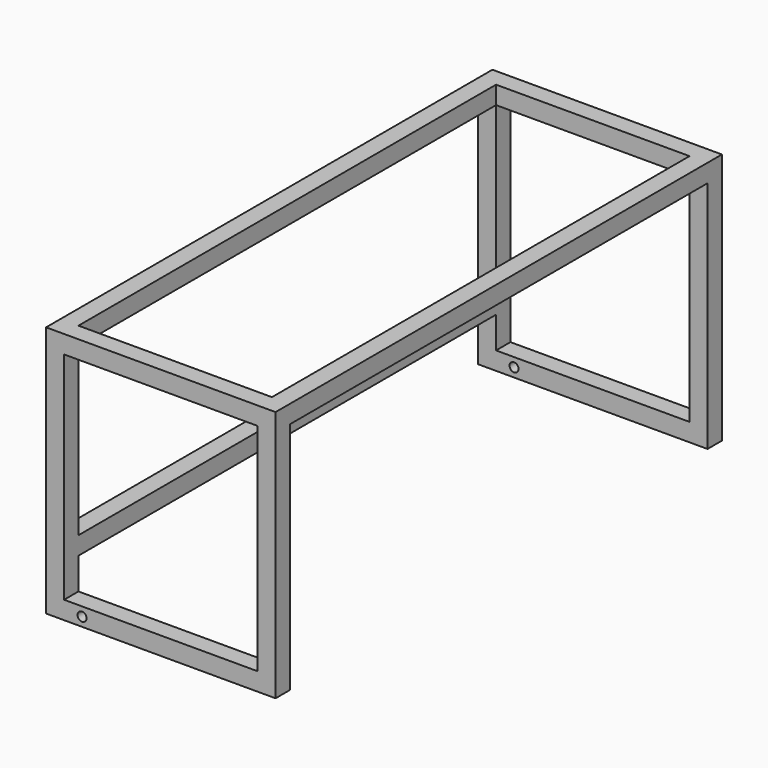
from build123d import *

# Parameters (mm, degrees)
F0_W     = 20
F0_H     = 20
F1_DEPTH = 310
F2_W     = 20
F2_H     = 20
F3_DEPTH = 260
F4_W     = 20
F4_H     = 20
F5_DEPTH = 215
F6_W     = 20
F6_H     = 20
F7_DEPTH = 580
F8_R     = 5
F9_DEPTH = 620


with BuildPart() as f1:
    # F0 (on Front) → F1 (new body, symmetric)
    with BuildSketch(Plane.XZ):
        with Locations((10, 260)):
            Rectangle(F0_W, F0_H)
    extrude(amount=F1_DEPTH, both=True)

    # F2 (on face) → F3 (join)
    with BuildSketch(Plane(origin=(0, 0, 250), x_dir=(1, 0, 0), z_dir=(0, 0, -1))):
        with Locations((10, 300)):
            Rectangle(F2_W, F2_H)
        with Locations((10, -300)):
            Rectangle(F2_W, F2_H)
    extrude(amount=F3_DEPTH)



with BuildPart() as f1b:
    # F0 (on Front) → F1, piece 2 (new body, symmetric)
    with BuildSketch(Plane.XZ):
        with Locations((245, 260)):
            Rectangle(F0_W, F0_H)
    extrude(amount=F1_DEPTH, both=True)

    # F2 (on face) → F3, piece 2 (join)
    with BuildSketch(Plane(origin=(0, 0, 250), x_dir=(1, 0, 0), z_dir=(0, 0, -1))):
        with Locations((245, -300)):
            Rectangle(F2_W, F2_H)
        with Locations((245, 300)):
            Rectangle(F2_W, F2_H)
    extrude(amount=F3_DEPTH)


with BuildPart() as f1_1:
    add(f1.part)

    add(f1b.part)  # F5 merges F1b
    # F4 (on face) → F5 (join, through all)
    with BuildSketch(Plane(origin=(235, 0, 0), x_dir=(0, -1, 0), z_dir=(-1, 0, 0))):
        with Locations((-300, 260)):
            Rectangle(F4_W, F4_H)
        with Locations((-300, 0)):
            Rectangle(F4_W, F4_H)
        with Locations((300, 0)):
            Rectangle(F4_W, F4_H)
        with Locations((300, 260)):
            Rectangle(F4_W, F4_H)
    extrude(amount=F5_DEPTH)

    # F6 (on face) → F7 (join, through all)
    with BuildSketch(Plane(origin=(0, -290, 0), x_dir=(-1, 0, 0), z_dir=(0, 1, 0))):
        with Locations((-10, 55)):
            Rectangle(F6_W, F6_H)
    extrude(amount=F7_DEPTH)

    # F8 (on face) → F9 (cut, through all)
    with BuildSketch(Plane(origin=(0, 310, 0), x_dir=(-1, 0, 0), z_dir=(0, 1, 0))):
        with Locations((-40, 0)):
            Circle(F8_R)
    extrude(amount=-F9_DEPTH, mode=Mode.SUBTRACT)


solid = f1_1.part
